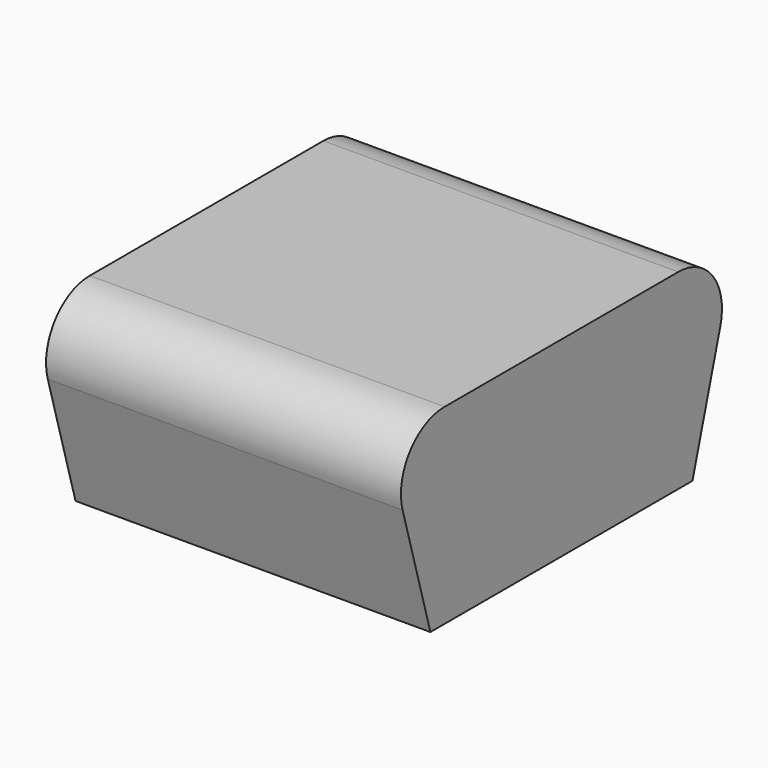
from build123d import *

# Parameters (mm, degrees)
EXTRUDE_SKETCH003_DEPTH = 6.5
POCKET001_DEPTH         = 5
FILLET002_R             = 1


with BuildPart() as part:
    # Sketch003 → Extrude_Sketch003 (new body)
    with BuildSketch(Plane(origin=(0, 0, 0), x_dir=(0, -1, 0), z_dir=(-1, 0, 0))):
        Polygon((-17, 5), (-9, 5), (-10, 1.5), (-16, 1.5), align=None)
    extrude(amount=-EXTRUDE_SKETCH003_DEPTH)

    # Sketch004 → Pocket001 (cut)
    with BuildSketch(Plane(origin=(0, 0, 0), x_dir=(0, -1, 0), z_dir=(-1, 0, 0))):
        Polygon((-15.632888, 4.295265), (-10.592995, 4.295265), (-11.18045, 2.239173), (-15.045433, 2.239173), align=None)
    extrude(amount=-POCKET001_DEPTH, mode=Mode.SUBTRACT)

    # Fillet002
    fillet002_edges = [part.edges().sort_by_distance(p)[0] for p in [
        (3.25, 17, 5),
        (3.25, 9, 5),
    ]]
    fillet(fillet002_edges, radius=FILLET002_R)


solid = part.part
